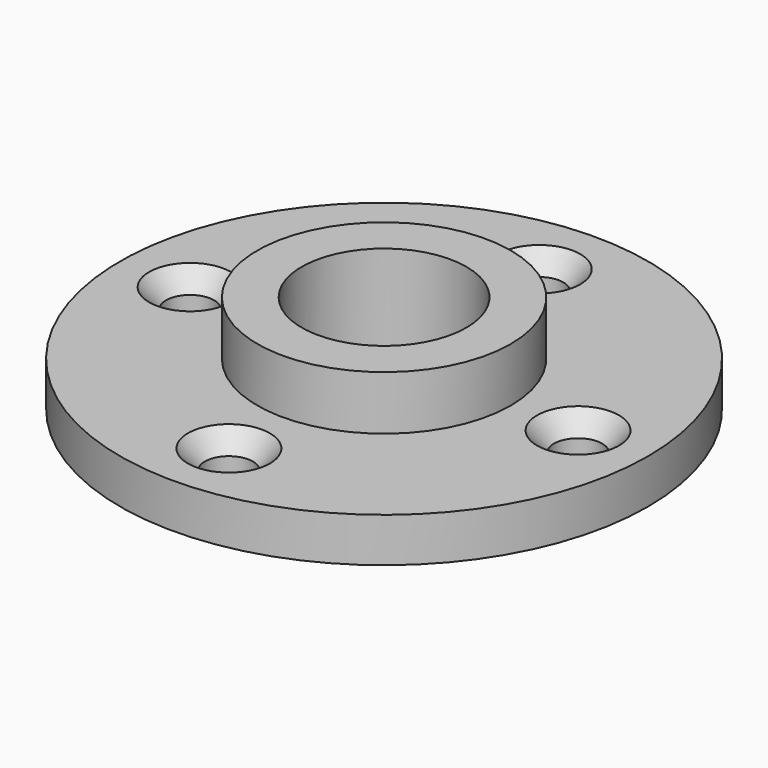
from build123d import *

# Parameters (mm, degrees)
HOLE_D             = 8.7
HOLE_DEPTH         = 25
HOLE_CSINK_D       = 14.79
HOLE_CSINK_ANGLE   = 82
POLARPATTERN_COUNT = 4


with BuildPart() as part:
    # Sketch → Revolution (revolve)
    with BuildSketch(Plane.XZ):
        Polygon((14.86, 0), (47.625, 0), (47.625, 8), (22.86, 8), (22.86, 17.78), (14.86, 17.78), align=None)
    revolve(axis=Axis((0, 0, 0), (0, 0, 1)))

    # Hole
    with Locations(Plane.XY.offset(8)):
        with Locations((0, 35)):
            hole = CounterSinkHole(HOLE_D / 2, HOLE_CSINK_D / 2, depth=HOLE_DEPTH, counter_sink_angle=HOLE_CSINK_ANGLE)

    # PolarPattern: Hole ×4 about axis
    polarpattern_axis = Axis((0, 0, 8), (0, 0, 1))
    for i in range(1, POLARPATTERN_COUNT):
        add(hole.rotate(polarpattern_axis, i * 360 / POLARPATTERN_COUNT), mode=Mode.SUBTRACT)


solid = part.part
